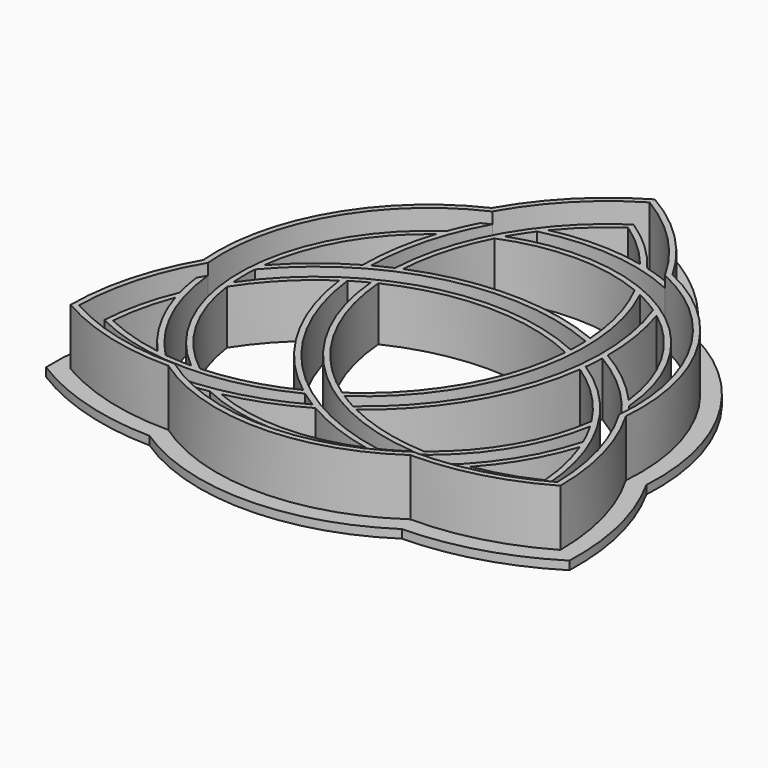
from build123d import *

# Parameters (mm, degrees)
F2_DEPTH = 11.5
F4_DEPTH = 9.5
F6_DEPTH = 1.5


with BuildPart() as f2:
    # F1 (on Top) → F2 (new body)
    with BuildSketch(Plane.XY):
        with BuildLine():
            ThreePointArc((21.391112, -30.800492), (32.732437, -29.359212), (43.30127, -25))
            ThreePointArc((43.30127, -25), (41.792042, -13.667516), (37.369565, -3.125))
            ThreePointArc((37.369565, -3.125), (32.475953, 18.75), (15.978453, 33.925492))
            ThreePointArc((15.978453, 33.925492), (9.059605, 43.026729), (0, 50))
            ThreePointArc((0, 50), (-9.059605, 43.026729), (-15.978453, 33.925492))
            ThreePointArc((-15.978453, 33.925492), (-32.475953, 18.75), (-37.369565, -3.125))
            ThreePointArc((-37.369565, -3.125), (-41.792042, -13.667516), (-43.30127, -25))
            ThreePointArc((-43.30127, -25), (-32.732437, -29.359212), (-21.391112, -30.800492))
            ThreePointArc((-21.391112, -30.800492), (0, -37.5), (21.391112, -30.800492))
        make_face()
        with BuildLine():
            ThreePointArc((0, 48.840714), (8.664822, 42.002043), (15.265354, 33.154471))
            ThreePointArc((15.265354, 33.154471), (31.609927, 18.25), (36.345291, -3.357051))
            ThreePointArc((36.345291, -3.357051), (40.707247, -13.497066), (42.297299, -24.420357))
            ThreePointArc((42.297299, -24.420357), (32.042425, -28.504977), (21.079937, -29.79742))
            ThreePointArc((21.079937, -29.79742), (0, -36.5), (-21.079937, -29.79742))
            ThreePointArc((-21.079937, -29.79742), (-32.042425, -28.504977), (-42.297299, -24.420357))
            ThreePointArc((-42.297299, -24.420357), (-40.707247, -13.497066), (-36.345291, -3.357051))
            ThreePointArc((-36.345291, -3.357051), (-31.609927, 18.25), (-15.265354, 33.154471))
            ThreePointArc((-15.265354, 33.154471), (-8.664822, 42.002043), (0, 48.840714))
        make_face(mode=Mode.SUBTRACT)
    extrude(amount=F2_DEPTH)

    # F3 (on Top) → F4 (join)
    with BuildSketch(Plane.XY):
        with BuildLine():
            ThreePointArc((-37.369565, -3.125), (-41.792042, -13.667516), (-43.30127, -25))
            ThreePointArc((-43.30127, -25), (-32.732437, -29.359212), (-21.391112, -30.800492))
            ThreePointArc((-21.391112, -30.800492), (0, -37.5), (21.391112, -30.800492))
            ThreePointArc((21.391112, -30.800492), (32.732437, -29.359212), (43.30127, -25))
            ThreePointArc((43.30127, -25), (41.792042, -13.667516), (37.369565, -3.125))
            ThreePointArc((37.369565, -3.125), (32.475953, 18.75), (15.978453, 33.925492))
            ThreePointArc((15.978453, 33.925492), (9.059605, 43.026729), (0, 50))
            ThreePointArc((0, 50), (-9.059605, 43.026729), (-15.978453, 33.925492))
            ThreePointArc((-15.978453, 33.925492), (-32.475953, 18.75), (-37.369565, -3.125))
        make_face()
        with BuildLine():
            ThreePointArc((-27.654124, -25.327839), (-33.039439, -24.068873), (-38.187298, -22.047447))
            ThreePointArc((-38.187298, -22.047447), (-37.363975, -16.578557), (-35.761614, -11.285254))
            ThreePointArc((-35.761614, -11.285254), (-32.475953, -18.75), (-27.654124, -25.327839))
        make_face(mode=Mode.SUBTRACT)
        with BuildLine():
            ThreePointArc((12.778233, -29.882549), (0, -32.5), (-12.778233, -29.882549))
            ThreePointArc((-12.778233, -29.882549), (-6.195093, -27.949057), (0, -25))
            ThreePointArc((0, -25), (6.195093, -27.949057), (12.778233, -29.882549))
        make_face(mode=Mode.SUBTRACT)
        with BuildLine():
            ThreePointArc((-0.988453, -24.411674), (-21.641744, -29.801269), (-42.297299, -24.420357))
            ThreePointArc((-42.297299, -24.420357), (-40.93048, -14.318555), (-37.186731, -4.837051))
            ThreePointArc((-37.186731, -4.837051), (-36.782343, -7.301316), (-36.214842, -9.733203))
            ThreePointArc((-36.214842, -9.733203), (-38.271761, -16.063439), (-39.230949, -22.649999))
            ThreePointArc((-39.230949, -22.649999), (-21.507775, -26.801011), (-3.815248, -22.521262))
            ThreePointArc((-3.815248, -22.521262), (-2.420415, -23.494229), (-0.988453, -24.411674))
        make_face(mode=Mode.SUBTRACT)
        with BuildLine():
            ThreePointArc((-21.368159, -25.800229), (-23.723378, -25.745144), (-26.070756, -25.545365))
            ThreePointArc((-26.070756, -25.545365), (-36.042301, 5.762167), (-16.806844, 32.400308))
            ThreePointArc((-16.806844, 32.400308), (-17.931706, 30.056717), (-18.913907, 27.649848))
            ThreePointArc((-18.913907, 27.649848), (-33.464741, 1.536591), (-21.368159, -25.800229))
        make_face(mode=Mode.SUBTRACT)
        with BuildLine():
            ThreePointArc((-4.711325, -21.851813), (-12.064283, -24.582194), (-19.819263, -25.757462))
            ThreePointArc((-19.819263, -25.757462), (-28.145826, -16.25), (-32.216247, -4.285254))
            ThreePointArc((-32.216247, -4.285254), (-27.320946, 1.843122), (-21.279888, 6.84578))
            ThreePointArc((-21.279888, 6.84578), (-15.849365, -9.150635), (-4.711325, -21.851813))
        make_face(mode=Mode.SUBTRACT)
        with BuildLine():
            ThreePointArc((18.559457, -26.679516), (16.497002, -28.001767), (14.340804, -29.164899))
            ThreePointArc((14.340804, -29.164899), (-9.057314, -16.593286), (-20.348009, 7.449127))
            ThreePointArc((-20.348009, 7.449127), (-18.94164, 8.289662), (-17.50061, 9.069281))
            ThreePointArc((-17.50061, 9.069281), (-6.018837, -15.410395), (18.559457, -26.679516))
        make_face(mode=Mode.SUBTRACT)
        with BuildLine():
            ThreePointArc((33.027733, -5.605254), (34.157638, -7.672476), (35.158313, -9.805254))
            ThreePointArc((35.158313, -9.805254), (13.030967, -34.094632), (-19.656068, -30.755308))
            ThreePointArc((-19.656068, -30.755308), (-17.064027, -30.557671), (-14.488517, -30.204848))
            ThreePointArc((-14.488517, -30.204848), (15.401644, -29.749611), (33.027733, -5.605254))
        make_face(mode=Mode.SUBTRACT)
        with BuildLine():
            ThreePointArc((35.761614, -11.285254), (37.363975, -16.578557), (38.187298, -22.047447))
            ThreePointArc((38.187298, -22.047447), (33.039439, -24.068873), (27.654124, -25.327839))
            ThreePointArc((27.654124, -25.327839), (32.475953, -18.75), (35.761614, -11.285254))
        make_face(mode=Mode.SUBTRACT)
        with BuildLine():
            ThreePointArc((21.279888, 6.84578), (27.320946, 1.843122), (32.216247, -4.285254))
            ThreePointArc((32.216247, -4.285254), (28.145826, -16.25), (19.819263, -25.757462))
            ThreePointArc((19.819263, -25.757462), (12.064283, -24.582194), (4.711325, -21.851813))
            ThreePointArc((4.711325, -21.851813), (15.849365, -9.150635), (21.279888, 6.84578))
        make_face(mode=Mode.SUBTRACT)
        with BuildLine():
            ThreePointArc((-16.536663, 9.547447), (0, 13.30127), (16.536663, 9.547447))
            ThreePointArc((16.536663, 9.547447), (11.519238, -6.650635), (0, -19.094894))
            ThreePointArc((0, -19.094894), (-11.519238, -6.650635), (-16.536663, 9.547447))
        make_face(mode=Mode.SUBTRACT)
        with BuildLine():
            ThreePointArc((13.82541, 29.412719), (16.00174, 28.287706), (18.087142, 27.00195))
            ThreePointArc((18.087142, 27.00195), (18.898864, 0.452779), (3.722872, -21.346456))
            ThreePointArc((3.722872, -21.346456), (2.291762, -20.548772), (0.896077, -19.690614))
            ThreePointArc((0.896077, -19.690614), (16.355212, 2.492731), (13.82541, 29.412719))
        make_face(mode=Mode.SUBTRACT)
        with BuildLine():
            ThreePointArc((26.536622, -26.496371), (33.047227, -25.112598), (39.230949, -22.649999))
            ThreePointArc((39.230949, -22.649999), (33.964244, -5.225775), (21.411609, 7.956529))
            ThreePointArc((21.411609, 7.956529), (21.556807, 9.650973), (21.635356, 11.349812))
            ThreePointArc((21.635356, 11.349812), (36.629528, -3.841665), (42.297299, -24.420357))
            ThreePointArc((42.297299, -24.420357), (32.865473, -28.287558), (22.782374, -29.786128))
            ThreePointArc((22.782374, -29.786128), (24.714297, -28.203786), (26.536622, -26.496371))
        make_face(mode=Mode.SUBTRACT)
        with BuildLine():
            ThreePointArc((-32.268163, 3.875), (-28.145826, 16.25), (-19.48993, 26.007549))
            ThreePointArc((-19.48993, 26.007549), (-21.107047, 19.339637), (-21.650635, 12.5))
            ThreePointArc((-21.650635, 12.5), (-27.30214, 8.60942), (-32.268163, 3.875))
        make_face(mode=Mode.SUBTRACT)
        with BuildLine():
            ThreePointArc((-32.384867, -2.733203), (-32.498742, -0.285939), (-32.427946, 2.162949))
            ThreePointArc((-32.427946, 2.162949), (-9.84155, 16.140507), (16.625137, 13.89733))
            ThreePointArc((16.625137, 13.89733), (16.649878, 12.259111), (16.604533, 10.621332))
            ThreePointArc((16.604533, 10.621332), (-10.336374, 12.917663), (-32.384867, -2.733203))
        make_face(mode=Mode.SUBTRACT)
        with BuildLine():
            ThreePointArc((0, 48.840714), (8.065007, 42.606113), (14.404356, 34.623179))
            ThreePointArc((14.404356, 34.623179), (12.068046, 35.505102), (9.67822, 36.229574))
            ThreePointArc((9.67822, 36.229574), (5.224534, 41.176037), (0, 45.299998))
            ThreePointArc((0, 45.299998), (-12.456468, 32.026785), (-17.596361, 14.564733))
            ThreePointArc((-17.596361, 14.564733), (-19.136391, 13.843256), (-20.646903, 13.061862))
            ThreePointArc((-20.646903, 13.061862), (-14.987784, 33.642935), (0, 48.840714))
        make_face(mode=Mode.SUBTRACT)
        with BuildLine():
            ThreePointArc((-12.396985, 30.042716), (0, 32.5), (12.396985, 30.042716))
            ThreePointArc((12.396985, 30.042716), (15.256664, 22.739072), (16.568563, 15.006034))
            ThreePointArc((16.568563, 15.006034), (0, 18.30127), (-16.568563, 15.006034))
            ThreePointArc((-16.568563, 15.006034), (-15.256664, 22.739072), (-12.396985, 30.042716))
        make_face(mode=Mode.SUBTRACT)
        with BuildLine():
            ThreePointArc((-9.087558, 35.350619), (23.011334, 28.332464), (36.462912, -1.645))
            ThreePointArc((36.462912, -1.645), (34.995733, 0.500954), (33.402425, 2.555))
            ThreePointArc((33.402425, 2.555), (18.063097, 28.21302), (-11.659574, 31.405483))
            ThreePointArc((-11.659574, 31.405483), (-10.43426, 33.41762), (-9.087558, 35.350619))
        make_face(mode=Mode.SUBTRACT)
        with BuildLine():
            ThreePointArc((19.48993, 26.007549), (28.145826, 16.25), (32.268163, 3.875))
            ThreePointArc((32.268163, 3.875), (27.30214, 8.60942), (21.650635, 12.5))
            ThreePointArc((21.650635, 12.5), (21.107047, 19.339637), (19.48993, 26.007549))
        make_face(mode=Mode.SUBTRACT)
        with BuildLine():
            ThreePointArc((-8.10749, 36.613093), (-4.324536, 40.64743), (0, 44.094894))
            ThreePointArc((0, 44.094894), (4.324536, 40.64743), (8.10749, 36.613093))
            ThreePointArc((8.10749, 36.613093), (0, 37.5), (-8.10749, 36.613093))
        make_face(mode=Mode.SUBTRACT)
    extrude(amount=F4_DEPTH)

    # F5 (on Top) → F6 (join)
    with BuildSketch(Plane.XY):
        with BuildLine():
            ThreePointArc((22.316995, -33.796475), (34.779897, -31.900789), (46.269544, -26.713734))
            ThreePointArc((46.269544, -26.713734), (45.016843, -14.16988), (40.427104, -2.428848))
            ThreePointArc((40.427104, -2.428848), (35.074029, 20.25), (18.110108, 36.225322))
            ThreePointArc((18.110108, 36.225322), (10.236945, 46.070669), (0, 53.427468))
            ThreePointArc((0, 53.427468), (-10.236945, 46.070669), (-18.110108, 36.225322))
            ThreePointArc((-18.110108, 36.225322), (-35.074029, 20.25), (-40.427104, -2.428848))
            ThreePointArc((-40.427104, -2.428848), (-45.016843, -14.16988), (-46.269544, -26.713734))
            ThreePointArc((-46.269544, -26.713734), (-34.779897, -31.900789), (-22.316995, -33.796475))
            ThreePointArc((-22.316995, -33.796475), (0, -40.5), (22.316995, -33.796475))
        make_face()
        with BuildLine():
            ThreePointArc((-37.369565, -3.125), (-32.475953, 18.75), (-15.978453, 33.925492))
            ThreePointArc((-15.978453, 33.925492), (-9.059605, 43.026729), (0, 50))
            ThreePointArc((0, 50), (9.059605, 43.026729), (15.978453, 33.925492))
            ThreePointArc((15.978453, 33.925492), (32.475953, 18.75), (37.369565, -3.125))
            ThreePointArc((37.369565, -3.125), (41.792042, -13.667516), (43.30127, -25))
            ThreePointArc((43.30127, -25), (32.732437, -29.359212), (21.391112, -30.800492))
            ThreePointArc((21.391112, -30.800492), (0, -37.5), (-21.391112, -30.800492))
            ThreePointArc((-21.391112, -30.800492), (-32.732437, -29.359212), (-43.30127, -25))
            ThreePointArc((-43.30127, -25), (-41.792042, -13.667516), (-37.369565, -3.125))
        make_face(mode=Mode.SUBTRACT)
    extrude(amount=F6_DEPTH)


solid = f2.part
